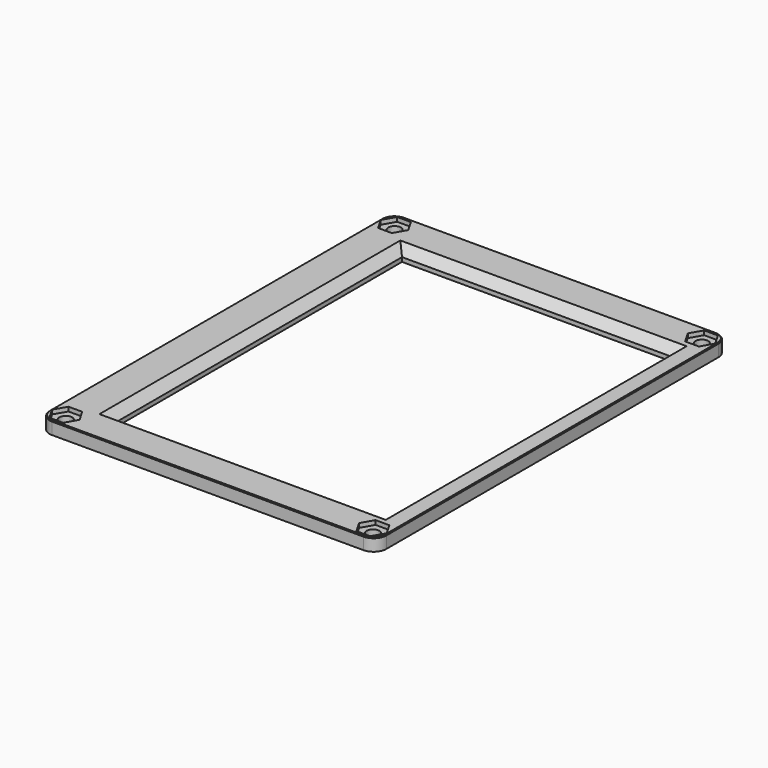
from build123d import *

# Parameters (mm, degrees)
SKETCH043_W          = 79.5
SKETCH043_H          = 104
SKETCH043_W_2        = 63.6
SKETCH043_H_2        = 84.8
PAD010_DEPTH         = 3
POCKET014_DEPTH      = 2
POCKET015_DEPTH      = 2
POCKET016_DEPTH      = 2
POCKET017_DEPTH      = 2
SKETCH047_R          = 1.5
POCKET018_DEPTH      = 0.001
POCKET018_DEPTH_BACK = 3.001
FILLET022_R          = 3
CHAMFER010_SIZE      = 2
CHAMFER001_SIZE      = 0.2


with BuildPart() as part:
    # Sketch043 → Pad010 (new body)
    with BuildSketch(Plane.XY):
        with Locations((-2.25, 6.5)):
            Rectangle(SKETCH043_W, SKETCH043_H)
        with Locations((-0.043942, 6.41066)):
            Rectangle(SKETCH043_W_2, SKETCH043_H_2, mode=Mode.SUBTRACT)
    extrude(amount=PAD010_DEPTH)

    # Sketch041 → Pocket014 (cut)
    with BuildSketch(Plane.XY.offset(2)):
        Polygon((-35.284015, 54.943331), (-36.909015, 57.757914), (-40.159015, 57.757914), (-41.784015, 54.943331), (-40.159015, 52.128748), (-36.909015, 52.128748), align=None)
    extrude(amount=POCKET014_DEPTH, mode=Mode.SUBTRACT)

    # Sketch045 → Pocket015 (cut)
    with BuildSketch(Plane.XY.offset(2)):
        Polygon((30.715985, -42.056669), (32.340985, -44.871252), (35.590985, -44.871252), (37.215985, -42.056669), (35.590985, -39.242086), (32.340985, -39.242086), align=None)
    extrude(amount=POCKET015_DEPTH, mode=Mode.SUBTRACT)

    # Sketch046 → Pocket016 (cut)
    with BuildSketch(Plane.XY.offset(2)):
        Polygon((32.340985, 52.128748), (35.590985, 52.128748), (37.215985, 54.943331), (35.590985, 57.757914), (32.340985, 57.757914), (30.715985, 54.943331), align=None)
    extrude(amount=POCKET016_DEPTH, mode=Mode.SUBTRACT)

    # Sketch044 → Pocket017 (cut)
    with BuildSketch(Plane.XY.offset(2)):
        Polygon((-35.284015, -42.056669), (-36.909015, -39.242086), (-40.159015, -39.242086), (-41.784015, -42.056669), (-40.159015, -44.871252), (-36.909015, -44.871252), align=None)
    extrude(amount=POCKET017_DEPTH, mode=Mode.SUBTRACT)

    # Sketch047 → Pocket018 (cut, two sides)
    with BuildSketch(Plane.XY) as pocket018_sk:
        with Locations((-38.515098, -42.092489)):
            Circle(SKETCH047_R)
        with Locations((34.02781, -42.092489)):
            Circle(SKETCH047_R)
        with Locations((34.02781, 54.9676)):
            Circle(SKETCH047_R)
        with Locations((-38.515098, 54.9676)):
            Circle(SKETCH047_R)
    extrude(amount=-POCKET018_DEPTH, mode=Mode.SUBTRACT)
    extrude(pocket018_sk.sketch, amount=POCKET018_DEPTH_BACK, mode=Mode.SUBTRACT)

    # Fillet022
    fillet022_edges = [part.edges().sort_by_distance(p)[0] for p in [
        (-42, 58.5, 1.5),
        (-42, -45.5, 1.5),
        (37.5, -45.5, 1.5),
        (37.5, 58.5, 1.5),
    ]]
    fillet(fillet022_edges, radius=FILLET022_R)

    # Chamfer010
    chamfer010_edges = [part.edges().sort_by_distance(p)[0] for p in [
        (-0.043942, -35.98934, 3),
        (31.756058, 6.41066, 3),
        (-31.843942, 6.41066, 3),
        (-0.043942, 48.81066, 3),
    ]]
    chamfer(chamfer010_edges, length=CHAMFER010_SIZE)

    # Chamfer001
    chamfer001_edges = [part.edges().sort_by_distance(p)[0] for p in [
        (-42, 6.5, 3),
        (-2.25, 58.5, 3),
        (37.5, 6.5, 3),
        (-2.25, -45.5, 3),
        (-41.12132, -44.62132, 3),
        (36.62132, 57.62132, 3),
        (-41.12132, 57.62132, 3),
        (36.62132, -44.62132, 3),
    ]]
    chamfer(chamfer001_edges, length=CHAMFER001_SIZE)


solid = part.part
